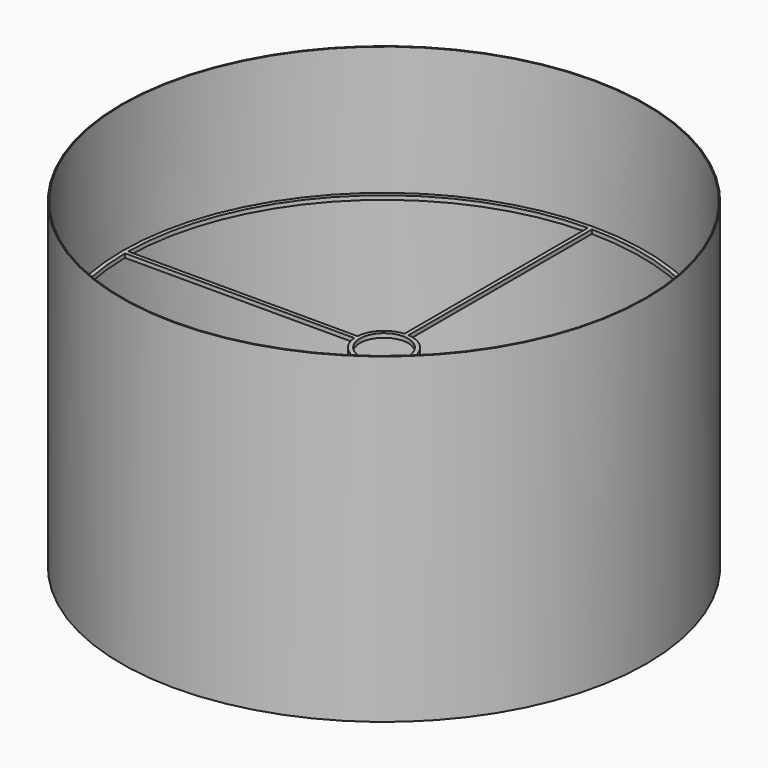
from build123d import *

# Parameters (mm, degrees)
F0_R          = 206.500881119
F0_R_2        = 19.05
F1_DEPTH      = 3.175
F2_R          = 207.294631119
F2_R_2        = 206.500881119
F3_DEPTH      = 101.6
F3_DEPTH_BACK = 152.4


with BuildPart() as f1:
    # F0 (on Top) → F1 (new body)
    with BuildSketch(Plane.XY):
        Circle(F0_R)
        with BuildLine():
            Line((-203.2, -1.5875), (-22.1682310695, -1.5875))
            ThreePointArc((-22.1682310695, -1.5875), (-15.7154482119, -15.7154482119), (-1.5875, -22.1682310695))
            Line((-1.5875, -22.1682310695), (-1.5875, -203.2))
            ThreePointArc((-1.5875, -203.2), (-143.6884827609, -143.6884827609), (-203.2, -1.5875))
        make_face(mode=Mode.SUBTRACT)
        with BuildLine():
            Line((22.1682310695, -1.5875), (203.2, -1.5875))
            ThreePointArc((203.2, -1.5875), (143.6884827609, -143.6884827609), (1.5875, -203.2))
            Line((1.5875, -203.2), (1.5875, -22.1682310695))
            ThreePointArc((1.5875, -22.1682310695), (15.7154482119, -15.7154482119), (22.1682310695, -1.5875))
        make_face(mode=Mode.SUBTRACT)
        with BuildLine():
            ThreePointArc((-203.2, 1.5875), (-143.6884827609, 143.6884827609), (-1.5875, 203.2))
            Line((-1.5875, 203.2), (-1.5875, 22.1682310695))
            ThreePointArc((-1.5875, 22.1682310695), (-15.7154482119, 15.7154482119), (-22.1682310695, 1.5875))
            Line((-22.1682310695, 1.5875), (-203.2, 1.5875))
        make_face(mode=Mode.SUBTRACT)
        Circle(F0_R_2, mode=Mode.SUBTRACT)
        with BuildLine():
            Line((203.2, 1.5875), (22.1682310695, 1.5875))
            ThreePointArc((22.1682310695, 1.5875), (15.7154482119, 15.7154482119), (1.5875, 22.1682310695))
            Line((1.5875, 22.1682310695), (1.5875, 203.2))
            ThreePointArc((1.5875, 203.2), (143.6884827609, 143.6884827609), (203.2, 1.5875))
        make_face(mode=Mode.SUBTRACT)
    extrude(amount=F1_DEPTH)

    # F2 (on face) → F3 (join, two sides)
    with BuildSketch(Plane.XY.offset(3.175)) as f3_sk:
        Circle(F2_R)
        Circle(F2_R_2, mode=Mode.SUBTRACT)
    extrude(amount=F3_DEPTH)
    extrude(f3_sk.sketch, amount=-F3_DEPTH_BACK)


solid = f1.part
